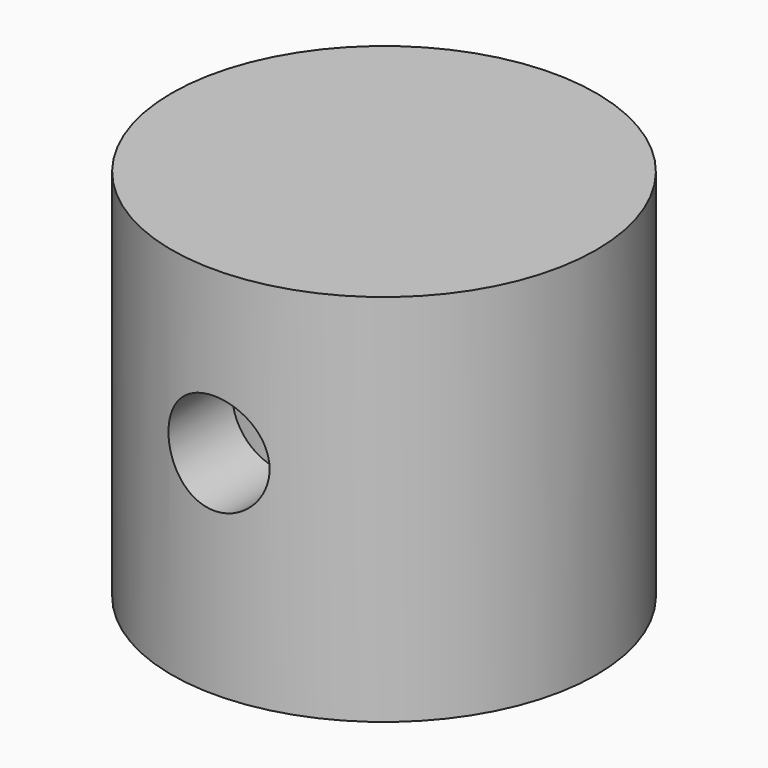
from build123d import *

# Parameters (mm, degrees)
F0_R          = 10.5
F1_DEPTH      = 18.5
F3_DEPTH      = 16.5
F4_R          = 9.75
F5_DEPTH      = 6
F6_R          = 2.5
F7_DEPTH      = 10.501
F7_DEPTH_BACK = 10.501


with BuildPart() as f1:
    # F0 (on Top) → F1 (new body)
    with BuildSketch(Plane.XY):
        Circle(F0_R)
    extrude(amount=F1_DEPTH)

    # F2 (on face) → F3 (cut)
    with BuildSketch(Plane(origin=(0, 0, 0), x_dir=(1, 0, 0), z_dir=(0, 0, -1))):
        with BuildLine():
            Line((2.75, 6.25), (-2.75, 6.25))
            ThreePointArc((-2.75, 6.25), (-9, 0), (-2.75, -6.25))
            Line((-2.75, -6.25), (2.75, -6.25))
            ThreePointArc((2.75, -6.25), (9, 0), (2.75, 6.25))
        make_face()
    extrude(amount=-F3_DEPTH, mode=Mode.SUBTRACT)

    # F4 (on face) → F5 (cut)
    with BuildSketch(Plane(origin=(0, 0, 0), x_dir=(1, 0, 0), z_dir=(0, 0, -1))):
        Circle(F4_R)
        with BuildLine():
            Line((-2.75, 6.25), (2.75, 6.25))
            ThreePointArc((2.75, 6.25), (9, 0), (2.75, -6.25))
            Line((2.75, -6.25), (-2.75, -6.25))
            ThreePointArc((-2.75, -6.25), (-9, 0), (-2.75, 6.25))
        make_face(mode=Mode.SUBTRACT)
    extrude(amount=-F5_DEPTH, mode=Mode.SUBTRACT)

    # F6 (on Front) → F7 (cut, two sides)
    with BuildSketch(Plane.XZ) as f7_sk:
        with Locations((0, 10.5)):
            Circle(F6_R)
    extrude(amount=-F7_DEPTH, mode=Mode.SUBTRACT)
    extrude(f7_sk.sketch, amount=F7_DEPTH_BACK, mode=Mode.SUBTRACT)


solid = f1.part
